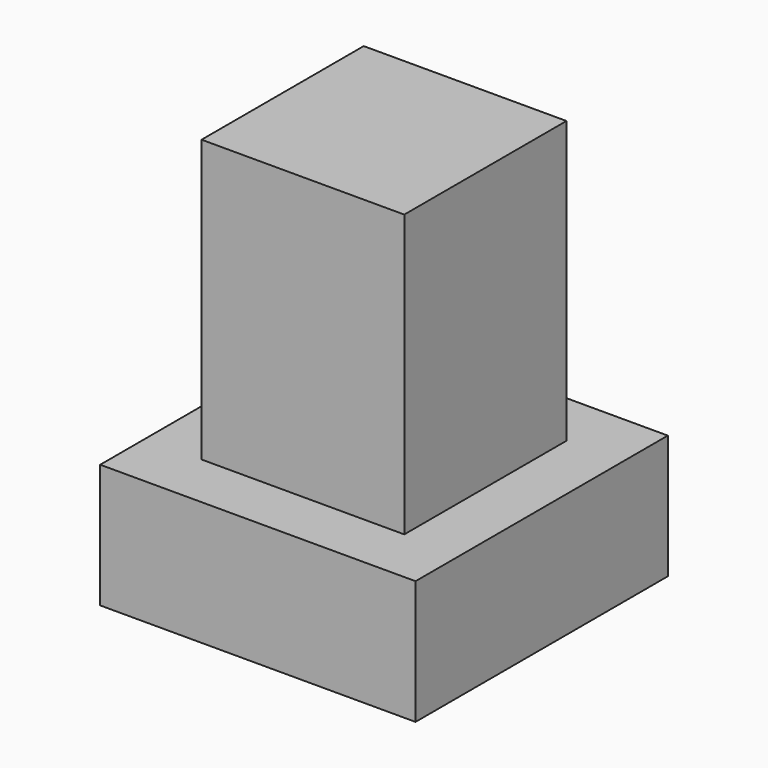
from build123d import *

# Parameters (mm, degrees)
SKETCH_W     = 5.6
SKETCH_H     = 5.6
PAD_DEPTH    = 2.2
SKETCH001_W  = 3.6
SKETCH001_H  = 3.6
PAD001_DEPTH = 5


with BuildPart() as part:
    # Sketch → Pad (new body)
    with BuildSketch(Plane.XY):
        Rectangle(SKETCH_W, SKETCH_H)
    extrude(amount=PAD_DEPTH)

    # Sketch001 → Pad001 (new body)
    with BuildSketch(Plane.XY.offset(2.2)):
        Rectangle(SKETCH001_W, SKETCH001_H)
    extrude(amount=PAD001_DEPTH)


solid = part.part
